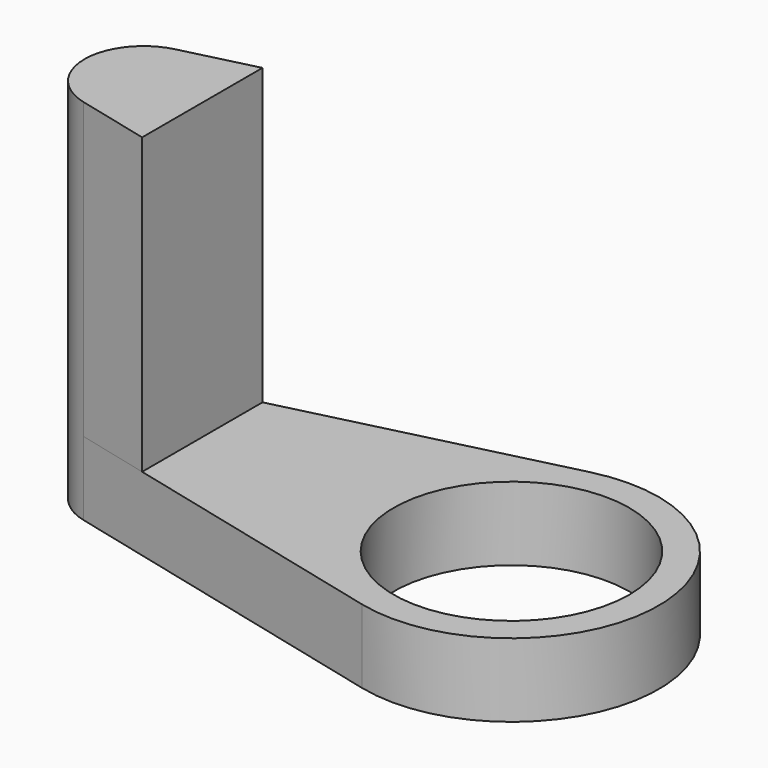
from build123d import *

# Parameters (mm, degrees)
SKETCH_R     = 8
PAD_DEPTH    = 5
PAD001_DEPTH = 20


with BuildPart() as part:
    # Sketch → Pad (new body)
    with BuildSketch(Plane.XY):
        with BuildLine():
            ThreePointArc((-2.4, -9.707729), (10, 0), (-2.4, 9.707729))
            Line((-25.96, 3.883092), (-2.4, 9.707729))
            ThreePointArc((-25.96, 3.883092), (-29, 0), (-25.96, -3.883092))
            Line((-2.4, -9.707729), (-25.96, -3.883092))
        make_face()
        Circle(SKETCH_R, mode=Mode.SUBTRACT)
    extrude(amount=PAD_DEPTH)

    # Sketch001 (on Face7 of Pad) → Pad001 (join)
    with BuildSketch(Plane.XY.offset(5)):
        with BuildLine():
            ThreePointArc((-25.96, 3.883092), (-29, 0), (-25.96, -3.883092))
            Line((-21, -5.109331), (-25.96, -3.883092))
            Line((-21, -5.109331), (-21, 5.109331))
            Line((-21, 5.109331), (-25.96, 3.883092))
        make_face()
    extrude(amount=PAD001_DEPTH)


solid = part.part
